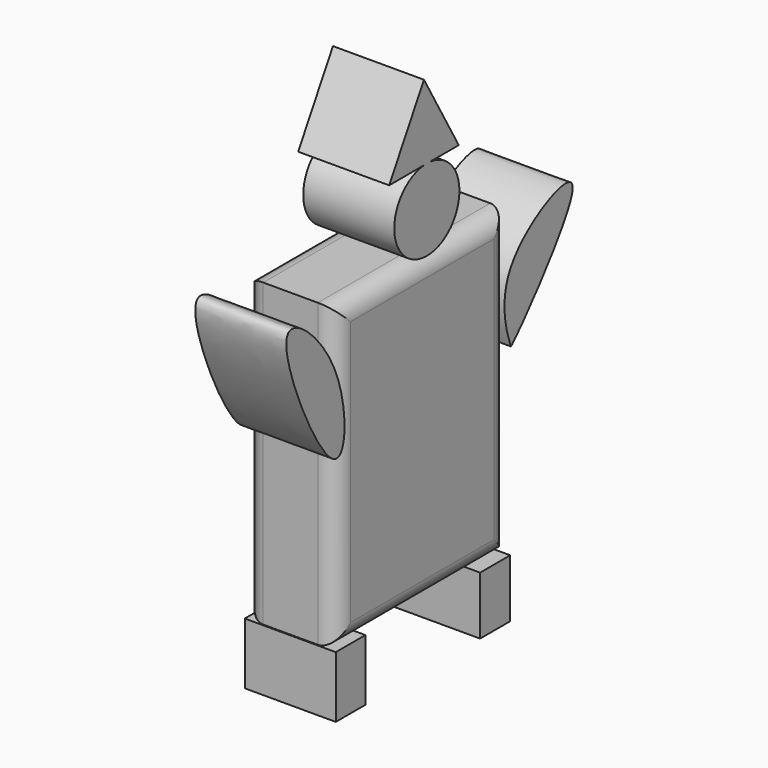
from build123d import *

# Parameters (mm, degrees)
F0_W     = 60.14174968
F0_H     = 84.0373504907
F1_DEPTH = 25.4
F2_R     = 5.08
F4_DEPTH = 25.4
F3_W     = 10.323472321
F3_H     = 17.1452686191
F3_W_2   = 10.5081591755
F3_H_2   = 16.2112154067


with BuildPart() as f1:
    # F0 (on Right) → F1 (new body)
    with BuildSketch(Plane.YZ):
        with Locations((1.208204776, -14.2299672589)):
            Rectangle(F0_W, F0_H)
    extrude(amount=F1_DEPTH)

    # F2
    f2_edges = [f1.edges().sort_by_distance(p)[0] for p in [
        (25.4, -28.86267, -14.229967),
        (25.4, 31.27908, -14.229967),
        (25.4, 1.208205, 27.788708),
        (25.4, 1.208205, -56.248643),
        (0, 1.208205, 27.788708),
        (0, 1.208205, -56.248643),
        (0, -28.86267, -14.229967),
        (0, 31.27908, -14.229967),
    ]]
    fillet(f2_edges, radius=F2_R)

    # F3 (on Right) → F4, piece 2 (join)
    with BuildSketch(Plane.YZ):
        with BuildLine():
            add(Edge.make_bspline(
                [(32.0832654834, 13.3006237447), (37.1350025845, 22.1651735744), (71.7972655913, 38.2817954591), (32.6090807303, -6.6076622341), (32.0557738888, -6.0476674376), (31.8831818454, -5.1407847372), (27.6492685405, 5.5200551882), (32.0832654834, 13.3006237447)],
                knots=[0, 0, 0, 0, 0.2977686116, 0.6667420328, 0.6926219109, 0.7386433444, 1, 1, 1, 1], degree=3))
        make_face()
        with BuildLine():
            add(Edge.make_bspline(
                [(-29.3288361281, 13.3006237447), (-34.1437815008, 24.0144247731), (-57.8567970473, 43.6732991453), (-25.5848649951, -28.0194473703), (-24.5257305741, 2.6131676594), (-29.3288361281, 13.3006237447)],
                knots=[0, 0, 0, 0, 0.2988005884, 0.7019341541, 1, 1, 1, 1], degree=3))
        make_face()
    extrude(amount=F4_DEPTH)


with BuildPart() as f4:
    # F3 (on Right) → F4 (new body)
    with BuildSketch(Plane.YZ):
        with BuildLine():
            ThreePointArc((1.8291913439, 50.7379062474), (-4.8412992389, 31.0301338793), (14.2002509804, 39.4153054084))
            ThreePointArc((14.2002509804, 39.4153054084), (11.2165499413, 47.0918388166), (3.8318141288, 50.7383870528))
            Line((3.8318141288, 50.7383870528), (1.8291913439, 50.7379062474))
        make_face()
        with BuildLine():
            Line((1.8291913439, 50.7379062474), (3.8318141288, 50.7383870528))
            ThreePointArc((3.8318141288, 50.7383870528), (2.8304921273, 50.7823348484), (1.8291913439, 50.7379062474))
        make_face()
        with BuildLine():
            ThreePointArc((1.8291913439, 50.7379062474), (2.8304921273, 50.7823348484), (3.8318141288, 50.7383870528))
            Line((3.8318141288, 50.7383870528), (13.9649923015, 50.7408199057))
            Line((13.9649923015, 50.7408199057), (1.8241447397, 71.7577300966))
            Line((1.8241447397, 71.7577300966), (-10.3066096138, 50.7349925891))
            Line((-10.3066096138, 50.7349925891), (1.8291913439, 50.7379062474))
        make_face()
    extrude(amount=F4_DEPTH)


with BuildPart() as f4b:
    # F3 (on Right) → F4, piece 3 (new body)
    with BuildSketch(Plane.YZ):
        with Locations((-23.7775798887, -64.9571232498)):
            Rectangle(F3_W, F3_H)
    extrude(amount=F4_DEPTH)


with BuildPart() as f4c:
    # F3 (on Right) → F4, piece 4 (new body)
    with BuildSketch(Plane.YZ):
        with Locations((26.6617229208, -65.424149856)):
            Rectangle(F3_W_2, F3_H_2)
    extrude(amount=F4_DEPTH)


solid = Compound([f1.part, f4.part, f4b.part, f4c.part])
